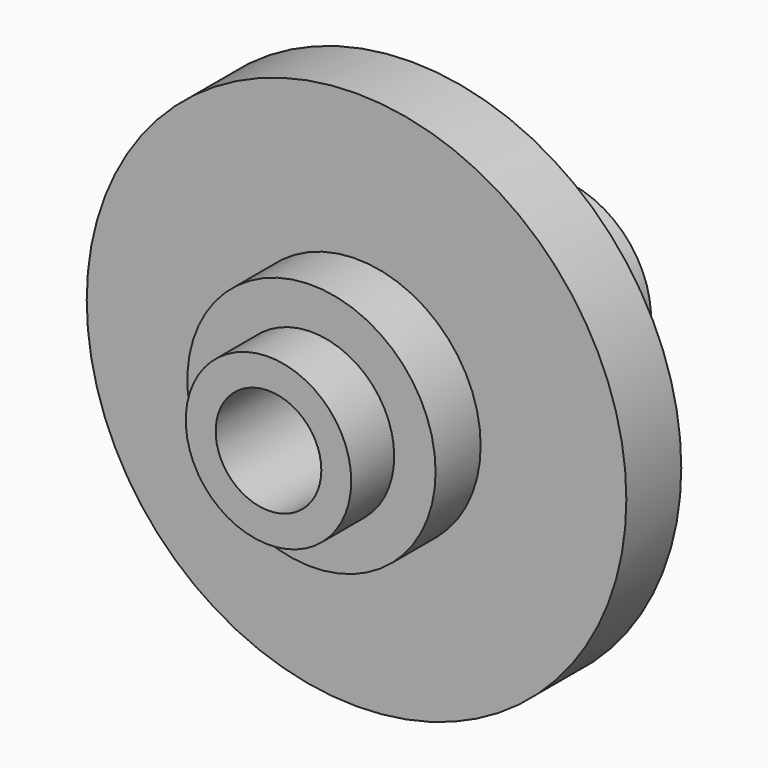
from build123d import *

# Parameters (mm, degrees)
F0_R      = 30.65
F0_R_2    = 6
F1_DEPTH  = 3.9
F2_R      = 14.1
F2_R_2    = 6
F3_DEPTH  = 6.4
F4_R      = 9.4
F4_R_2    = 6
F5_DEPTH  = 6.1
F6_R      = 13.9
F7_DEPTH  = 10.2
F8_R      = 12.875
F9_DEPTH  = 0.6
F10_R     = 10.66
F11_DEPTH = 9.9
F12_DEPTH = 24.601


with BuildPart() as f1:
    # F0 (on Front) → F1 (new body, symmetric)
    with BuildSketch(Plane.XZ):
        Circle(F0_R)
        Circle(F0_R_2, mode=Mode.SUBTRACT)
    extrude(amount=F1_DEPTH, both=True)

    # F2 (on face) → F3 (join)
    with BuildSketch(Plane.XZ.offset(3.9)):
        Circle(F2_R)
        Circle(F2_R_2, mode=Mode.SUBTRACT)
    extrude(amount=F3_DEPTH)

    # F4 (on face) → F5 (join)
    with BuildSketch(Plane.XZ.offset(10.3)):
        Circle(F4_R)
        Circle(F4_R_2, mode=Mode.SUBTRACT)
    extrude(amount=F5_DEPTH)

    # F6 (on face) → F7 (join)
    with BuildSketch(Plane(origin=(0, 3.9, 0), x_dir=(-1, 0, 0), z_dir=(0, 1, 0))):
        Circle(F6_R)
    extrude(amount=F7_DEPTH)

    # F8 (on face) → F9 (join)
    with BuildSketch(Plane(origin=(0, 14.1, 0), x_dir=(-1, 0, 0), z_dir=(0, 1, 0))):
        Circle(F8_R)
    extrude(amount=F9_DEPTH)

    # F10 (on face) → F11 (join)
    with BuildSketch(Plane(origin=(0, 14.7, 0), x_dir=(-1, 0, 0), z_dir=(0, 1, 0))):
        Circle(F10_R)
    extrude(amount=F11_DEPTH)

    # F0 (on Front) → F12 (cut, through all)
    with BuildSketch(Plane.XZ):
        Circle(F0_R_2)
    extrude(amount=-F12_DEPTH, mode=Mode.SUBTRACT)


solid = f1.part
